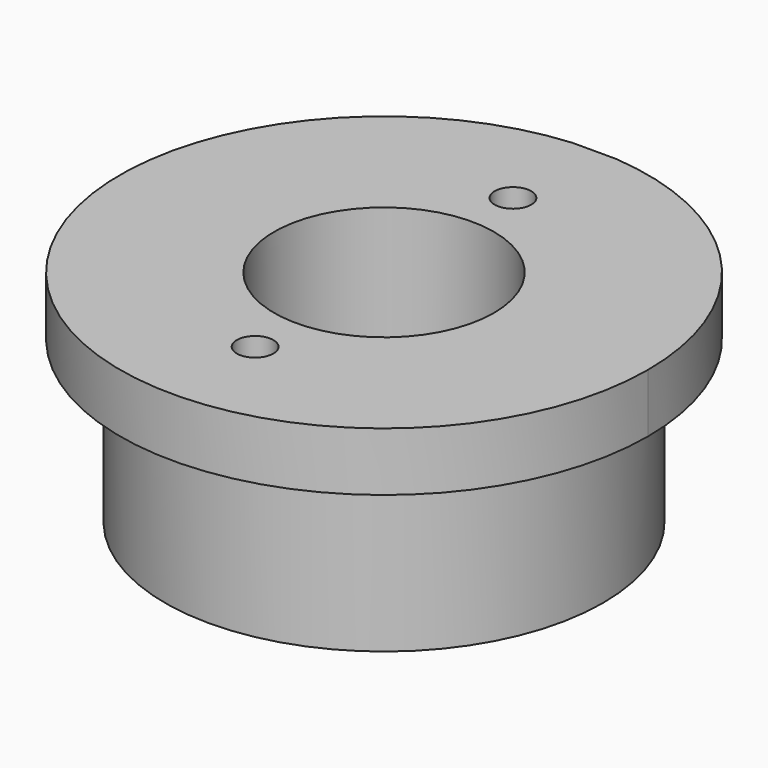
from build123d import *

# Parameters (mm, degrees)
F1_DEPTH = 11
F3_DEPTH = 4
F4_R     = 7.5
F5_DEPTH = 25
F6_R     = 1.25
F7_DEPTH = 25
F6_R_2   = 1.75
F8_DEPTH = 3.1


with BuildPart() as f1:
    # F0 (on Top) → F1 (new body)
    with BuildSketch(Plane.XY):
        with BuildLine():
            Line((-1.5, 17.95), (-1.5, 14.874559))
            ThreePointArc((-1.5, 14.874559), (0, -14.95), (1.5, 14.874559))
            Line((1.5, 14.874559), (1.5, 17.95))
            Line((1.5, 17.95), (-1.5, 17.95))
        make_face()
    extrude(amount=F1_DEPTH)

    # F2 (on face) → F3 (join)
    with BuildSketch(Plane.XY.offset(11)):
        with BuildLine():
            ThreePointArc((-1.5, 17.95), (-12.194951, -13.256533), (18.012565, 0))
            ThreePointArc((18.012565, 0), (13.256533, 12.194951), (1.5, 17.95))
            Line((1.5, 17.95), (1.5, 14.874559))
            ThreePointArc((1.5, 14.874559), (0, -14.95), (-1.5, 14.874559))
            Line((-1.5, 14.874559), (-1.5, 17.95))
        make_face()
        with BuildLine():
            Line((1.5, 14.874559), (1.5, 17.95))
            Line((1.5, 17.95), (-1.5, 17.95))
            Line((-1.5, 17.95), (-1.5, 14.874559))
            ThreePointArc((-1.5, 14.874559), (0, -14.95), (1.5, 14.874559))
        make_face()
    extrude(amount=F3_DEPTH)

    # F4 (on face) → F5 (cut)
    with BuildSketch(Plane(origin=(0, 0, 0), x_dir=(1, 0, 0), z_dir=(0, 0, -1))):
        Circle(F4_R)
    extrude(amount=-F5_DEPTH, mode=Mode.SUBTRACT)

    # F6 (on face) → F7 (cut)
    with BuildSketch(Plane(origin=(0, 0, 0), x_dir=(1, 0, 0), z_dir=(0, 0, -1))):
        with Locations((0, -11)):
            Circle(F6_R)
        with Locations((0, 11)):
            Circle(F6_R)
    extrude(amount=-F7_DEPTH, mode=Mode.SUBTRACT)

    # F6 (on face) → F8 (cut)
    with BuildSketch(Plane(origin=(0, 0, 0), x_dir=(1, 0, 0), z_dir=(0, 0, -1))):
        with Locations((0, 11)):
            Circle(F6_R_2)
        with Locations((0, 11)):
            Circle(F6_R, mode=Mode.SUBTRACT)
        with Locations((0, -11)):
            Circle(F6_R_2)
        with Locations((0, -11)):
            Circle(F6_R, mode=Mode.SUBTRACT)
    extrude(amount=-F8_DEPTH, mode=Mode.SUBTRACT)


solid = f1.part
